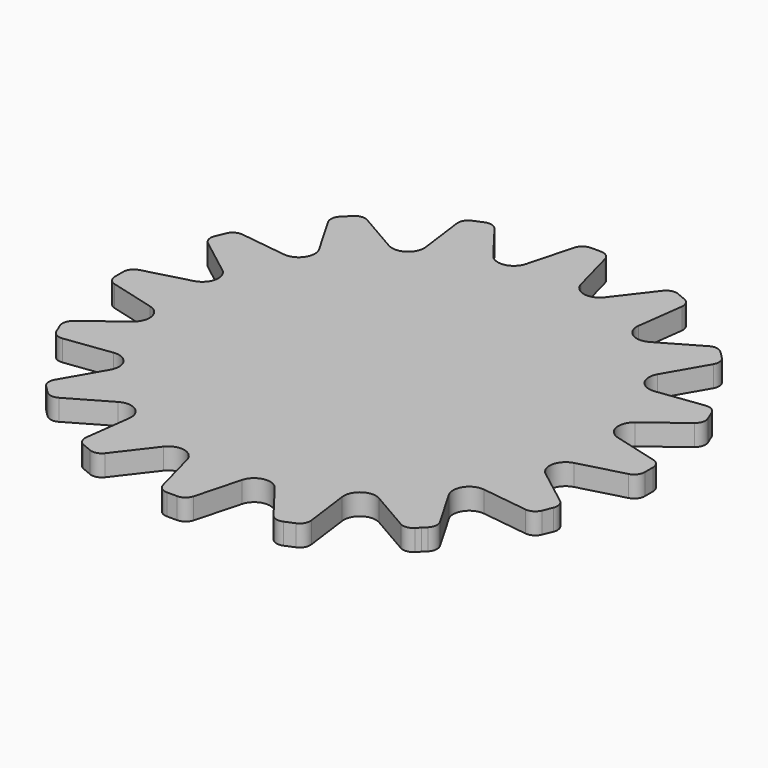
from build123d import *

# Parameters (mm, degrees)
F1_DEPTH = 2.54


with BuildPart() as f1:
    # F0 (on Top) → F1 (new body)
    with BuildSketch(Plane.XY):
        with BuildLine():
            Line((1.839721, -30.8087), (3.288977, -25.4))
            ThreePointArc((3.288977, -25.4), (4.775443, -24.007773), (6.68154, -24.725177))
            Line((6.68154, -24.725177), (10.090299, -29.167558))
            ThreePointArc((10.090299, -29.167558), (10.769158, -29.621157), (11.583866, -29.567758))
            Line((11.583866, -29.567758), (12.150199, -29.333175))
            Line((12.150199, -29.333175), (12.716532, -29.098592))
            ThreePointArc((12.716532, -29.098592), (13.330377, -28.560265), (13.489659, -27.759497))
            Line((13.489659, -27.759497), (12.758778, -22.207903))
            ThreePointArc((12.758778, -22.207903), (13.599311, -20.352807), (15.634854, -20.28617))
            Line((15.634854, -20.28617), (20.484162, -23.08592))
            ThreePointArc((20.484162, -23.08592), (21.28493, -23.245202), (22.017188, -22.884093))
            Line((22.017188, -22.884093), (22.45064, -22.45064))
            Line((22.45064, -22.45064), (22.884093, -22.017188))
            ThreePointArc((22.884093, -22.017188), (23.245202, -21.28493), (23.08592, -20.484162))
            Line((23.08592, -20.484162), (20.28617, -15.634854))
            ThreePointArc((20.28617, -15.634854), (20.352807, -13.599311), (22.207903, -12.758778))
            Line((22.207903, -12.758778), (27.759497, -13.489659))
            ThreePointArc((27.759497, -13.489659), (28.560265, -13.330377), (29.098592, -12.716532))
            Line((29.098592, -12.716532), (29.333175, -12.150199))
            Line((29.333175, -12.150199), (29.567758, -11.583866))
            ThreePointArc((29.567758, -11.583866), (29.621157, -10.769158), (29.167558, -10.090299))
            Line((29.167558, -10.090299), (24.725177, -6.68154))
            ThreePointArc((24.725177, -6.68154), (24.007773, -4.775443), (25.4, -3.288977))
            Line((25.4, -3.288977), (30.8087, -1.839721))
            ThreePointArc((30.8087, -1.839721), (31.487559, -1.386122), (31.75, -0.612995))
            Line((31.75, -0.612995), (31.75, 0))
            Line((31.75, 0), (31.75, 0.612995))
            ThreePointArc((31.75, 0.612995), (31.487559, 1.386122), (30.8087, 1.839721))
            Line((30.8087, 1.839721), (25.4, 3.288977))
            ThreePointArc((25.4, 3.288977), (24.007773, 4.775443), (24.725177, 6.68154))
            Line((24.725177, 6.68154), (29.167558, 10.090299))
            ThreePointArc((29.167558, 10.090299), (29.621157, 10.769158), (29.567758, 11.583866))
            Line((29.567758, 11.583866), (29.333175, 12.150199))
            Line((29.333175, 12.150199), (29.098592, 12.716532))
            ThreePointArc((29.098592, 12.716532), (28.560265, 13.330377), (27.759497, 13.489659))
            Line((27.759497, 13.489659), (22.207903, 12.758778))
            ThreePointArc((22.207903, 12.758778), (20.352807, 13.599311), (20.28617, 15.634854))
            Line((20.28617, 15.634854), (23.08592, 20.484162))
            ThreePointArc((23.08592, 20.484162), (23.245202, 21.28493), (22.884093, 22.017188))
            Line((22.884093, 22.017188), (22.45064, 22.45064))
            Line((22.45064, 22.45064), (22.017188, 22.884093))
            ThreePointArc((22.017188, 22.884093), (21.28493, 23.245202), (20.484162, 23.08592))
            Line((20.484162, 23.08592), (15.634854, 20.28617))
            ThreePointArc((15.634854, 20.28617), (13.599311, 20.352807), (12.758778, 22.207903))
            Line((12.758778, 22.207903), (13.489659, 27.759497))
            ThreePointArc((13.489659, 27.759497), (13.330377, 28.560265), (12.716532, 29.098592))
            Line((12.716532, 29.098592), (12.150199, 29.333175))
            Line((12.150199, 29.333175), (11.583866, 29.567758))
            ThreePointArc((11.583866, 29.567758), (10.769158, 29.621157), (10.090299, 29.167558))
            Line((10.090299, 29.167558), (6.68154, 24.725177))
            ThreePointArc((6.68154, 24.725177), (4.775443, 24.007773), (3.288977, 25.4))
            Line((3.288977, 25.4), (1.839721, 30.8087))
            ThreePointArc((1.839721, 30.8087), (1.386122, 31.487559), (0.612995, 31.75))
            Line((0.612995, 31.75), (0, 31.75))
            Line((0, 31.75), (-0.612995, 31.75))
            ThreePointArc((-0.612995, 31.75), (-1.386122, 31.487559), (-1.839721, 30.8087))
            Line((-1.839721, 30.8087), (-3.288977, 25.4))
            ThreePointArc((-3.288977, 25.4), (-4.775443, 24.007773), (-6.68154, 24.725177))
            Line((-6.68154, 24.725177), (-10.090299, 29.167558))
            ThreePointArc((-10.090299, 29.167558), (-10.769158, 29.621157), (-11.583866, 29.567758))
            Line((-11.583866, 29.567758), (-12.150199, 29.333175))
            Line((-12.150199, 29.333175), (-12.716532, 29.098592))
            ThreePointArc((-12.716532, 29.098592), (-13.330377, 28.560265), (-13.489659, 27.759497))
            Line((-13.489659, 27.759497), (-12.758778, 22.207903))
            ThreePointArc((-12.758778, 22.207903), (-13.599311, 20.352807), (-15.634854, 20.28617))
            Line((-15.634854, 20.28617), (-20.484162, 23.08592))
            ThreePointArc((-20.484162, 23.08592), (-21.28493, 23.245202), (-22.017188, 22.884093))
            Line((-22.017188, 22.884093), (-22.45064, 22.45064))
            Line((-22.45064, 22.45064), (-22.884093, 22.017188))
            ThreePointArc((-22.884093, 22.017188), (-23.245202, 21.28493), (-23.08592, 20.484162))
            Line((-23.08592, 20.484162), (-20.28617, 15.634854))
            ThreePointArc((-20.28617, 15.634854), (-20.352807, 13.599311), (-22.207903, 12.758778))
            Line((-22.207903, 12.758778), (-27.759497, 13.489659))
            ThreePointArc((-27.759497, 13.489659), (-28.560265, 13.330377), (-29.098592, 12.716532))
            Line((-29.098592, 12.716532), (-29.333175, 12.150199))
            Line((-29.333175, 12.150199), (-29.567758, 11.583866))
            ThreePointArc((-29.567758, 11.583866), (-29.621157, 10.769158), (-29.167558, 10.090299))
            Line((-29.167558, 10.090299), (-24.725177, 6.68154))
            ThreePointArc((-24.725177, 6.68154), (-24.007773, 4.775443), (-25.4, 3.288977))
            Line((-25.4, 3.288977), (-30.8087, 1.839721))
            ThreePointArc((-30.8087, 1.839721), (-31.487559, 1.386122), (-31.75, 0.612995))
            Line((-31.75, 0.612995), (-31.75, 0))
            Line((-31.75, 0), (-31.75, -0.612995))
            ThreePointArc((-31.75, -0.612995), (-31.487559, -1.386122), (-30.8087, -1.839721))
            Line((-30.8087, -1.839721), (-25.4, -3.288977))
            ThreePointArc((-25.4, -3.288977), (-24.007773, -4.775443), (-24.725177, -6.68154))
            Line((-24.725177, -6.68154), (-29.167558, -10.090299))
            ThreePointArc((-29.167558, -10.090299), (-29.621157, -10.769158), (-29.567758, -11.583866))
            Line((-29.567758, -11.583866), (-29.333175, -12.150199))
            Line((-29.333175, -12.150199), (-29.098592, -12.716532))
            ThreePointArc((-29.098592, -12.716532), (-28.560265, -13.330377), (-27.759497, -13.489659))
            Line((-27.759497, -13.489659), (-22.207903, -12.758778))
            ThreePointArc((-22.207903, -12.758778), (-20.352807, -13.599311), (-20.28617, -15.634854))
            Line((-20.28617, -15.634854), (-23.08592, -20.484162))
            ThreePointArc((-23.08592, -20.484162), (-23.245202, -21.28493), (-22.884093, -22.017188))
            Line((-22.884093, -22.017188), (-22.45064, -22.45064))
            Line((-22.45064, -22.45064), (-22.017188, -22.884093))
            ThreePointArc((-22.017188, -22.884093), (-21.28493, -23.245202), (-20.484162, -23.08592))
            Line((-20.484162, -23.08592), (-15.634854, -20.28617))
            ThreePointArc((-15.634854, -20.28617), (-13.599311, -20.352807), (-12.758778, -22.207903))
            Line((-12.758778, -22.207903), (-13.489659, -27.759497))
            ThreePointArc((-13.489659, -27.759497), (-13.330377, -28.560265), (-12.716532, -29.098592))
            Line((-12.716532, -29.098592), (-12.150199, -29.333175))
            Line((-12.150199, -29.333175), (-11.583866, -29.567758))
            ThreePointArc((-11.583866, -29.567758), (-10.769158, -29.621157), (-10.090299, -29.167558))
            Line((-10.090299, -29.167558), (-6.68154, -24.725177))
            ThreePointArc((-6.68154, -24.725177), (-4.775443, -24.007773), (-3.288977, -25.4))
            Line((-3.288977, -25.4), (-1.839721, -30.8087))
            ThreePointArc((-1.839721, -30.8087), (-1.386122, -31.487559), (-0.612995, -31.75))
            Line((-0.612995, -31.75), (0, -31.75))
            Line((0, -31.75), (0.612995, -31.75))
            ThreePointArc((0.612995, -31.75), (1.386122, -31.487559), (1.839721, -30.8087))
        make_face()
    extrude(amount=F1_DEPTH)


solid = f1.part
